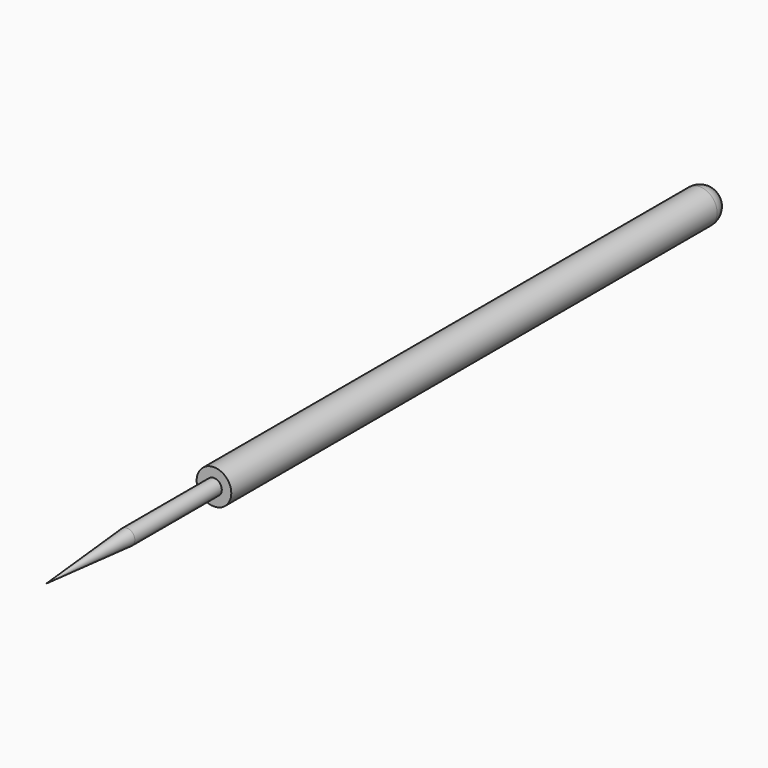
from build123d import *

# Parameters (mm, degrees)
SKETCH_R      = 0.685
PAD_DEPTH     = 24.7
FILLET_R      = 0.68
SKETCH001_R   = 0.31
PAD001_DEPTH  = 8.3
CHAMFER_ANGLE = 4.43
CHAMFER_SIZE  = 4


with BuildPart() as part:
    # Sketch → Pad (new body)
    with BuildSketch(Plane.XZ):
        Circle(SKETCH_R)
    extrude(amount=PAD_DEPTH)

    # Fillet
    fillet_edges = [part.edges().sort_by_distance(p)[0] for p in [
        (-0.685, 0, 0),
    ]]
    fillet(fillet_edges, radius=FILLET_R)

    # Sketch001 (on Face3 of Fillet) → Pad001 (join)
    with BuildSketch(Plane.XZ.offset(24.7)):
        Circle(SKETCH001_R)
    extrude(amount=PAD001_DEPTH)

    # Chamfer
    chamfer_edges = [part.edges().sort_by_distance(p)[0] for p in [
        (-0.31, -33, 0),
    ]]
    chamfer_side = part.faces().sort_by_distance((-0.31, -28.85, 0))[0]
    chamfer(chamfer_edges, length=CHAMFER_SIZE, angle=CHAMFER_ANGLE, reference=chamfer_side)


solid = part.part
